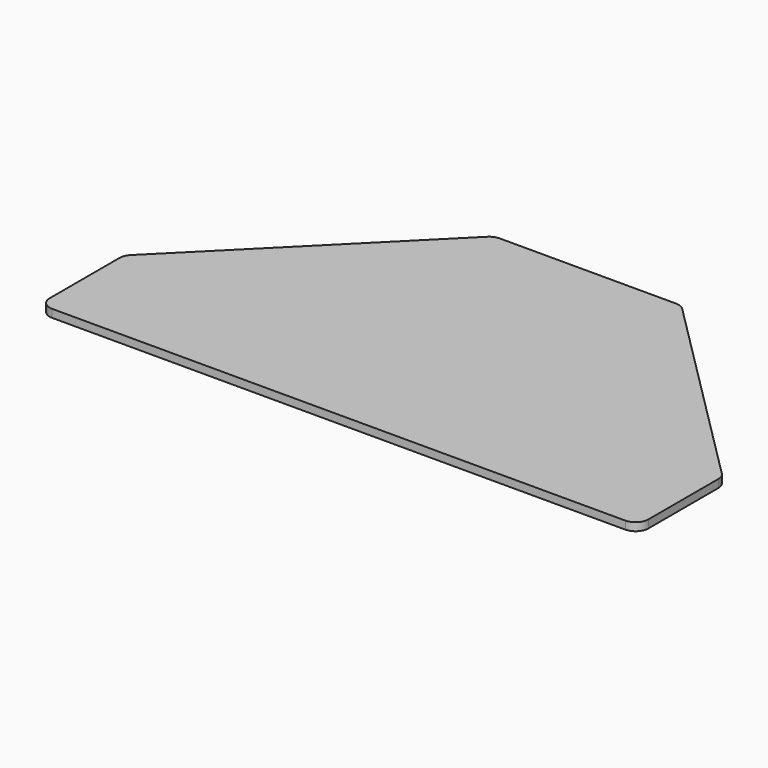
from build123d import *

# Parameters (mm, degrees)
F0_W     = 476.25
F0_H     = 83.947
F1_DEPTH = 6.35
F2_R     = 10.16


with BuildPart() as f1:
    # F0 (on Top) → F1 (new body)
    with BuildSketch(Plane.XY):
        Polygon((163.703, 247.65), (0, 83.947), (476.25, 83.947), (312.547, 247.65), align=None)
        with Locations((238.125, 41.9735)):
            Rectangle(F0_W, F0_H)
    extrude(amount=F1_DEPTH)

    # F2
    f2_edges = [f1.edges().sort_by_distance(p)[0] for p in [
        (163.703, 247.65, 3.175),
        (312.547, 247.65, 3.175),
        (476.25, 83.947, 3.175),
        (476.25, 0, 3.175),
        (0, 0, 3.175),
        (0, 83.947, 3.175),
    ]]
    fillet(f2_edges, radius=F2_R)


solid = f1.part
